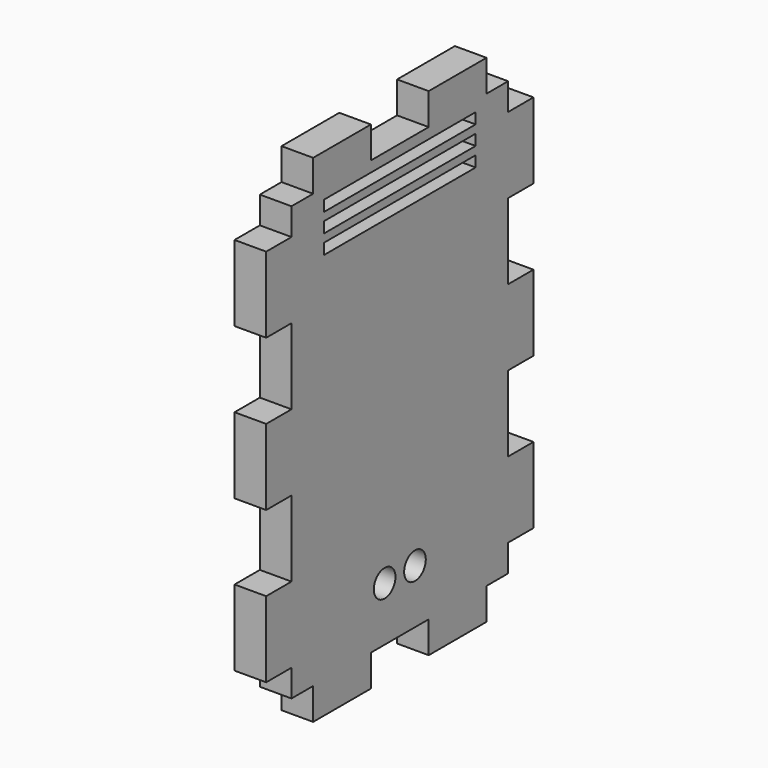
from build123d import *

# Parameters (mm, degrees)
F0_R     = 2.5
F0_W     = 35
F0_H     = 2
F1_DEPTH = 5.842


with BuildPart() as f1:
    # F0 (on Right) → F1 (new body)
    with BuildSketch(Plane.YZ):
        Polygon((-25, -35), (-25, -40), (-20, -40), (-20, -45.842), (-6.666667, -45.842), (-6.666667, -40), (6.666667, -40), (6.666667, -45.842), (20, -45.842), (20, -40), (25, -40), (25, -35), (30.842, -35), (30.842, -21), (25, -21), (25, -7), (30.842, -7), (30.842, 7), (25, 7), (25, 21), (30.842, 21), (30.842, 35), (25, 35), (25, 40), (20, 40), (20, 45.842), (6.666667, 45.842), (6.666667, 40), (-6.666667, 40), (-6.666667, 45.842), (-20, 45.842), (-20, 40), (-25, 40), (-25, 35), (-30.842, 35), (-30.842, 21), (-25, 21), (-25, 7), (-30.842, 7), (-30.842, -7), (-25, -7), (-25, -21), (-30.842, -21), (-30.842, -35), align=None)
        with Locations((-3.50444, -30)):
            Circle(F0_R, mode=Mode.SUBTRACT)
        with Locations((3.49556, -30)):
            Circle(F0_R, mode=Mode.SUBTRACT)
        with Locations((0, 30.027077)):
            Rectangle(F0_W, F0_H, mode=Mode.SUBTRACT)
        with Locations((0, 33.527077)):
            Rectangle(F0_W, F0_H, mode=Mode.SUBTRACT)
        with Locations((0, 37.027077)):
            Rectangle(F0_W, F0_H, mode=Mode.SUBTRACT)
    extrude(amount=F1_DEPTH)


solid = f1.part
